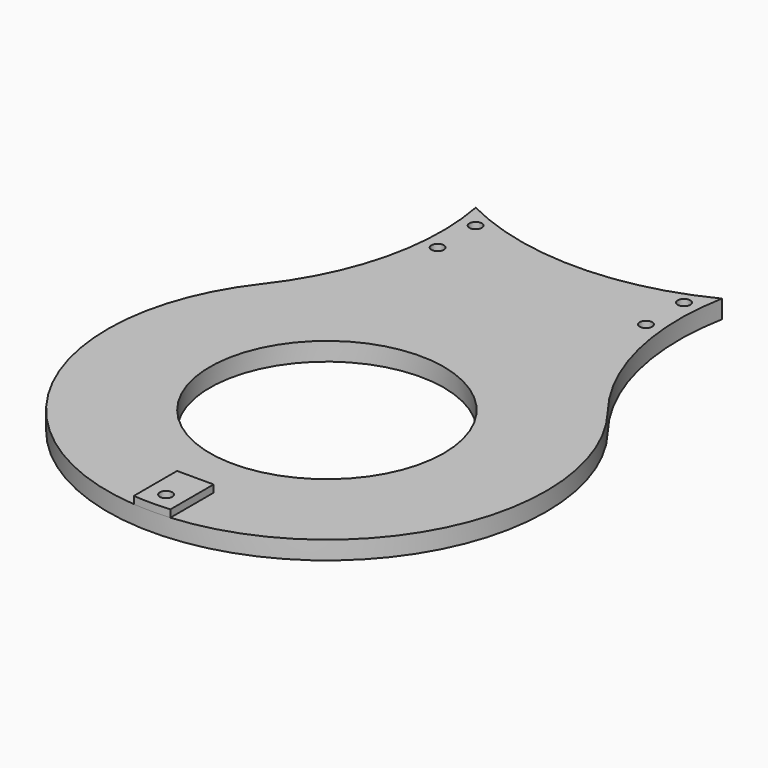
from build123d import *

# Parameters (mm, degrees)
SKETCH_R        = 32
PAD_DEPTH       = 5
PAD001_DEPTH    = 2
SKETCH002_R     = 1.7
POCKET_DEPTH    = 7.001
SKETCH003_R     = 2.95
POCKET001_DEPTH = 3
SKETCH004_R     = 1.7
POCKET002_DEPTH = 7.001
SKETCH006_R     = 75
POCKET004_DEPTH = 7.001


with BuildPart() as part:
    # Sketch → Pad (new body)
    with BuildSketch(Plane.XY):
        with BuildLine():
            ThreePointArc((-47.293619, 36.923077), (0, -60), (47.293619, 36.923077))
            ThreePointArc((47.293619, 123.076923), (32.469508, 80), (47.293619, 36.923077))
            ThreePointArc((47.293619, 123.076923), (3.1e-05, 220), (-47.293657, 123.076972))
            ThreePointArc((-47.293619, 36.923077), (-32.469508, 80.000031), (-47.293657, 123.076972))
        make_face()
        Circle(SKETCH_R, mode=Mode.SUBTRACT)
        with Locations((0, 160)):
            Circle(SKETCH_R, mode=Mode.SUBTRACT)
    extrude(amount=PAD_DEPTH)

    # Sketch001 (on Face8 of Pad) → Pad001 (join)
    with BuildSketch(Plane.XY.offset(5)):
        with BuildLine():
            Line((-5, -59.791304), (-5, -45))
            Line((-5, -45), (5, -45))
            Line((5, -45), (5, -59.791304))
            ThreePointArc((-5, -59.791304), (0, -60), (5, -59.791304))
        make_face()
        with BuildLine():
            ThreePointArc((5, 219.791304), (0, 220), (-5, 219.791304))
            Line((-5, 219.791304), (-5, 205))
            Line((-5, 205), (5, 205))
            Line((5, 205), (5, 219.791304))
        make_face()
    extrude(amount=PAD001_DEPTH)

    # Sketch002 (on Face14 of Pad001) → Pocket (cut, through all)
    with BuildSketch(Plane.XY.offset(7)):
        with Locations((0, -55)):
            Circle(SKETCH002_R)
        with Locations((0, 215)):
            Circle(SKETCH002_R)
    extrude(amount=-POCKET_DEPTH, mode=Mode.SUBTRACT)

    # Sketch003 (on Face4 of Pocket) → Pocket001 (cut)
    with BuildSketch(Plane(origin=(0, 0, 0), x_dir=(1, 0, 0), z_dir=(0, 0, -1))):
        with Locations((0, 55)):
            Circle(SKETCH003_R)
        with Locations((0, -215)):
            Circle(SKETCH003_R)
    extrude(amount=-POCKET001_DEPTH, mode=Mode.SUBTRACT)

    # Sketch004 (on Face4 of Pocket001) → Pocket002 (cut, through all)
    with BuildSketch(Plane(origin=(0, 0, 0), x_dir=(1, 0, 0), z_dir=(0, 0, -1))):
        with Locations((28.5, -73.5)):
            Circle(SKETCH004_R)
        with Locations((28.5, -86.5)):
            Circle(SKETCH004_R)
        with Locations((-28.5, -86.5)):
            Circle(SKETCH004_R)
        with Locations((-28.5, -73.5)):
            Circle(SKETCH004_R)
    extrude(amount=-POCKET002_DEPTH, mode=Mode.SUBTRACT)

    # Sketch006 (on Face4 of Pocket002) → Pocket004 (cut, through all)
    with BuildSketch(Plane(origin=(0, 0, 0), x_dir=(1, 0, 0), z_dir=(0, 0, -1))):
        with Locations((0, -160)):
            Circle(SKETCH006_R)
    extrude(amount=-POCKET004_DEPTH, mode=Mode.SUBTRACT)


solid = part.part
